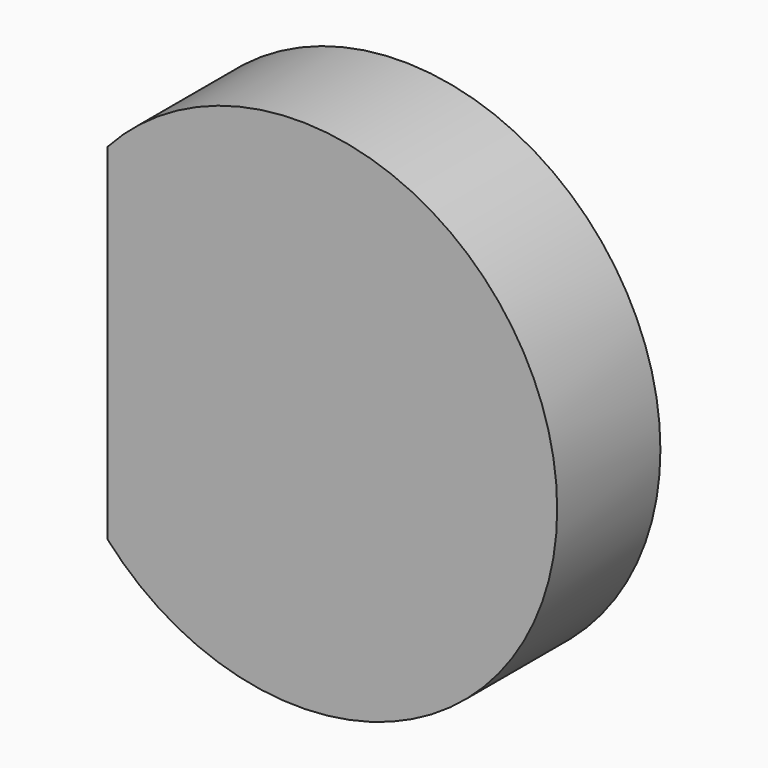
from build123d import *

# Parameters (mm, degrees)
CIRCLE008_AS_DRAWN_R                      = 2
EXTRUDE015_DEPTH                          = 2
EXTRUDE015_ONTO_CIRCLE008_ROLL_ANGLE      = 90
EXTRUDE015_ONTO_CIRCLE008_PLACEMENT_ANGLE = 180
RECTANGLE005_AS_DRAWN_W                   = 5.41291
RECTANGLE005_AS_DRAWN_H                   = 8.044928
EXTRUDE010_DEPTH                          = 3
EXTRUDE010_ONTO_RECTANGLE005_ROLL_ANGLE   = 90
CIRCLE002_AS_DRAWN_R                      = 4
EXTRUDE009_DEPTH                          = 2
EXTRUDE009_ONTO_CIRCLE002_ROLL_ANGLE      = 90


with BuildPart() as extrude015:
    # Circle008 as drawn → Extrude015 (new)
    with BuildSketch(Plane.XY):
        Circle(CIRCLE008_AS_DRAWN_R)
    extrude(amount=EXTRUDE015_DEPTH)


with BuildPart() as extrude015_1:
    # Extrude015 onto Circle008 roll: moved
    add(extrude015.part.rotate(Axis((0, 0, 0), (1, 0, 0)), EXTRUDE015_ONTO_CIRCLE008_ROLL_ANGLE))


with BuildPart() as extrude015_2:
    # Extrude015 onto Circle008 placement: moved
    add(extrude015_1.part.moved(Location((9.579189, 64.900139, 11.27318))).rotate(Axis((9.579189, 64.900139, 11.27318), (0, 0, 1)), EXTRUDE015_ONTO_CIRCLE008_PLACEMENT_ANGLE))


with BuildPart() as extrude015_3:
    # Extrude015 placement: moved
    add(extrude015_2.part.moved(Location((0, 1, 0))))


with BuildPart() as extrude010:
    # Rectangle005 as drawn → Extrude010 (new)
    with BuildSketch(Plane.XY):
        with Locations((-2.706455, -4.022464)):
            Rectangle(RECTANGLE005_AS_DRAWN_W, RECTANGLE005_AS_DRAWN_H)
    extrude(amount=-EXTRUDE010_DEPTH)


with BuildPart() as extrude010_1:
    # Extrude010 onto Rectangle005 roll: moved
    add(extrude010.part.rotate(Axis((0, 0, 0), (1, 0, 0)), EXTRUDE010_ONTO_RECTANGLE005_ROLL_ANGLE))


with BuildPart() as extrude010_2:
    # Extrude010 onto Rectangle005 placement: moved
    add(extrude010_1.part.moved(Location((56.902615, 1.09014, 40.499655))))


with BuildPart() as extrude010_3:
    # Extrude010 placement: moved
    add(extrude010_2.part.moved(Location((0, -0.5, 0))))


with BuildPart() as obj1:
    # Circle002 as drawn → Extrude009 (new)
    with BuildSketch(Plane.XY):
        Circle(CIRCLE002_AS_DRAWN_R)
    extrude(amount=-EXTRUDE009_DEPTH)


with BuildPart() as obj1_1:
    # Extrude009 onto Circle002 roll: moved
    add(obj1.part.rotate(Axis((0, 0, 0), (1, 0, 0)), EXTRUDE009_ONTO_CIRCLE002_ROLL_ANGLE))


with BuildPart() as obj1_2:
    # Extrude009 onto Circle002 placement: moved
    add(obj1_1.part.moved(Location((59.872219, 1.090141, 36.55234))))

    # Cut: cut Extrude010
    add(extrude010_3.part, mode=Mode.SUBTRACT)


with BuildPart() as obj1_3:
    # Cut placement: moved
    add(obj1_2.part.moved(Location((-50.399612, 63.810001, -25.16555))))

    # Cut002: cut Extrude015
    add(extrude015_3.part, mode=Mode.SUBTRACT)


solid = obj1_3.part
